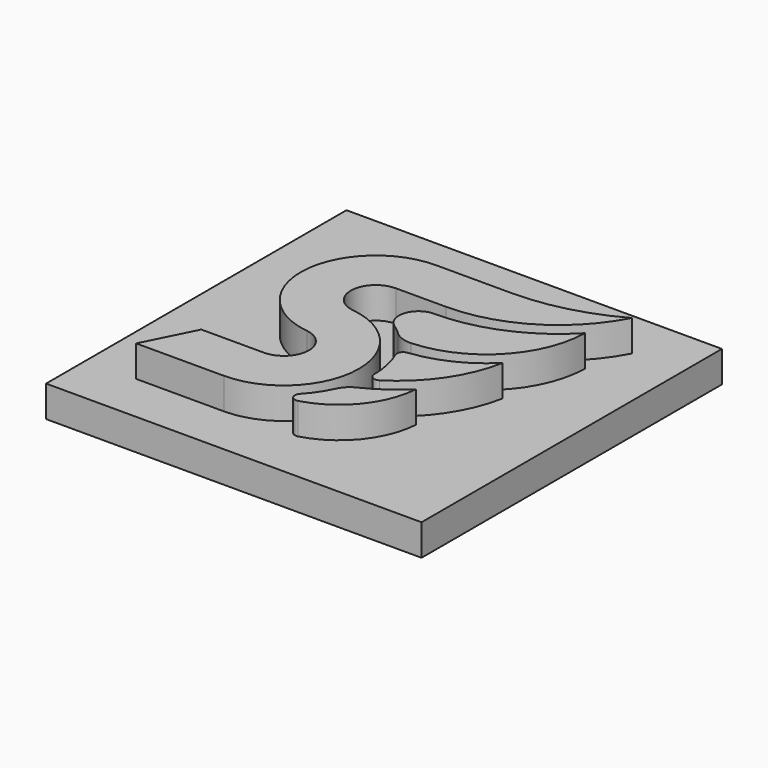
from build123d import *

# Parameters (mm, degrees)
F0_W     = 300
F0_H     = 300
F1_DEPTH = 25
F3_DEPTH = 25
F4_R     = 20
F5_R     = 5


with BuildPart() as f1:
    # F0 (on Top) → F1 (new body)
    with BuildSketch(Plane.XY):
        Rectangle(F0_W, F0_H)
    extrude(amount=-F1_DEPTH)

    # F2 (on face) → F3 (join)
    with BuildSketch(Plane.XY):
        with BuildLine():
            ThreePointArc((-37.5, -30.156865), (-20.039255, -51.252458), (-40, -70))
            Line((-40, -70), (-90, -70))
            Line((-90, -70), (-110, -110))
            Line((-110, -110), (-40, -110))
            ThreePointArc((-40, -110), (19.882236, -53.757375), (-32.5, 9.529404))
            ThreePointArc((-32.5, 9.529404), (-49.960745, 30.624998), (-30, 49.372539))
            Line((-30, 49.372539), (10, 49.372539))
            ThreePointArc((10, 49.372539), (68.471551, 65.713145), (110, 110))
            ThreePointArc((110, 110), (71.308268, 94.61238), (30, 89.372539))
            Line((30, 89.372539), (-30, 89.372539))
            ThreePointArc((-30, 89.372539), (-89.882236, 33.129914), (-37.5, -30.156865))
        make_face()
        with BuildLine():
            ThreePointArc((100, 75.721052), (58.914743, 47.359298), (10, 37.372539))
            ThreePointArc((10, 37.372539), (-4.817424, 26.491687), (1.128978, 9.096592))
            ThreePointArc((1.128978, 9.096592), (7.932224, 3.726175), (14.040846, -2.422832))
            ThreePointArc((14.040846, -2.422832), (73.830182, 18.158186), (100, 75.721052))
        make_face()
        with BuildLine():
            ThreePointArc((85, 12.229434), (56.413934, -7.140348), (22.700465, -14.60718))
            ThreePointArc((22.700465, -14.60718), (30.620541, -35.973627), (31.466948, -58.745018))
            ThreePointArc((31.466948, -58.745018), (66.554074, -29.533671), (85, 12.229434))
        make_face()
        with BuildLine():
            ThreePointArc((28.093718, -73.39328), (16.967091, -94.031245), (-0.200503, -110))
            ThreePointArc((-0.200503, -110), (44.30119, -92.515885), (65, -49.415372))
            ThreePointArc((65, -49.415372), (47.736246, -63.235005), (28.093718, -73.39328))
        make_face()
    extrude(amount=F3_DEPTH)

    # F4
    f4_edges = [f1.edges().sort_by_distance(p)[0] for p in [
        (14.040846, -2.422832, 12.5),
        (28.093718, -73.39328, 12.5),
    ]]
    fillet(f4_edges, radius=F4_R)

    # F5
    f5_edges = [f1.edges().sort_by_distance(p)[0] for p in [
        (22.700465, -14.60718, 12.5),
        (31.466948, -58.745018, 12.5),
        (-0.200503, -110, 12.5),
    ]]
    fillet(f5_edges, radius=F5_R)


solid = f1.part
